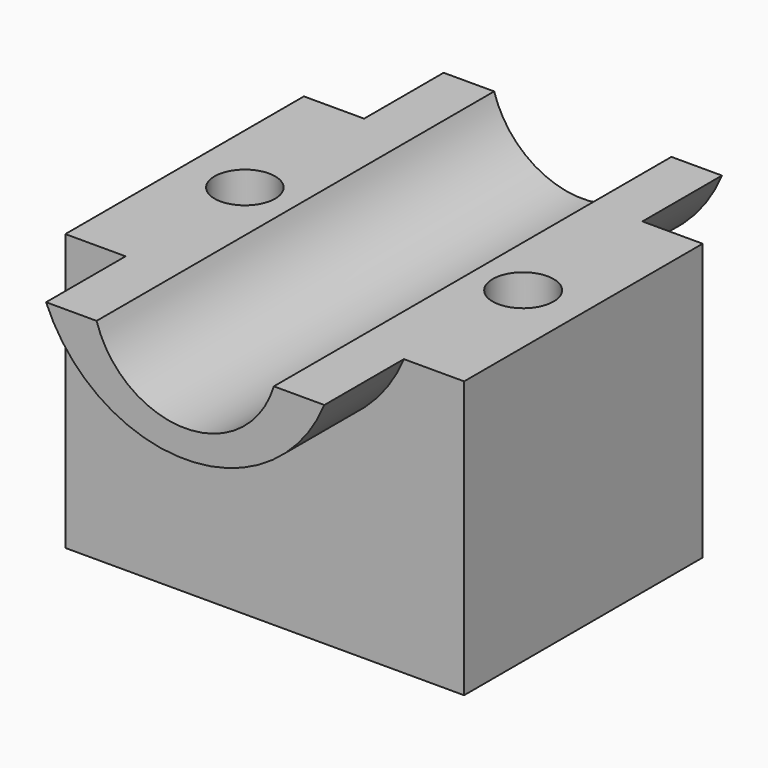
from build123d import *

# Parameters (mm, degrees)
F1_DEPTH      = 76.2
F2_DEPTH      = 25.4
F2_DEPTH_BACK = 101.6
F3_R          = 7.7865248509
F4_DEPTH      = 101.6
F5_R          = 7.747
F6_DEPTH      = 101.6


with BuildPart() as f1:
    # F0 (on Front) → F1 (new body)
    with BuildSketch(Plane.XZ):
        with BuildLine():
            Line((-50.9560853243, -35.3116765618), (50.9560853243, -35.3116765618))
            Line((50.9560853243, -35.3116765618), (50.9560853243, 35.3116765618))
            Line((50.9560853243, 35.3116765618), (35.56, 35.3116765618))
            ThreePointArc((35.56, 35.3116765618), (0, 11.5130765942), (-35.56, 35.3116765618))
            Line((-35.56, 35.3116765618), (-50.9560853243, 35.3116765618))
            Line((-50.9560853243, 35.3116765618), (-50.9560853243, -35.3116765618))
        make_face()
    extrude(amount=F1_DEPTH)

    # F0 (on Front) → F2 (join, two sides)
    with BuildSketch(Plane.XZ) as f2_sk:
        with BuildLine():
            ThreePointArc((-35.56, 35.3116765618), (0, 11.5130765942), (35.56, 35.3116765618))
            Line((35.56, 35.3116765618), (22.6471517235, 35.3116765618))
            ThreePointArc((22.6471517235, 35.3116765618), (0, 18.5039060672), (-22.6471517235, 35.3116765618))
            Line((-22.6471517235, 35.3116765618), (-35.56, 35.3116765618))
        make_face()
    extrude(amount=-F2_DEPTH)
    extrude(f2_sk.sketch, amount=F2_DEPTH_BACK)

    # F3 (on face) → F4 (cut)
    with BuildSketch(Plane.XY.offset(35.3116765618)):
        with Locations((35.56, -38.1)):
            Circle(F3_R)
    extrude(amount=-F4_DEPTH, mode=Mode.SUBTRACT)

    # F5 (on face) → F6 (cut)
    with BuildSketch(Plane.XY.offset(35.3116765618)):
        with Locations((-35.56, -38.1)):
            Circle(F5_R)
    extrude(amount=-F6_DEPTH, mode=Mode.SUBTRACT)


solid = f1.part
